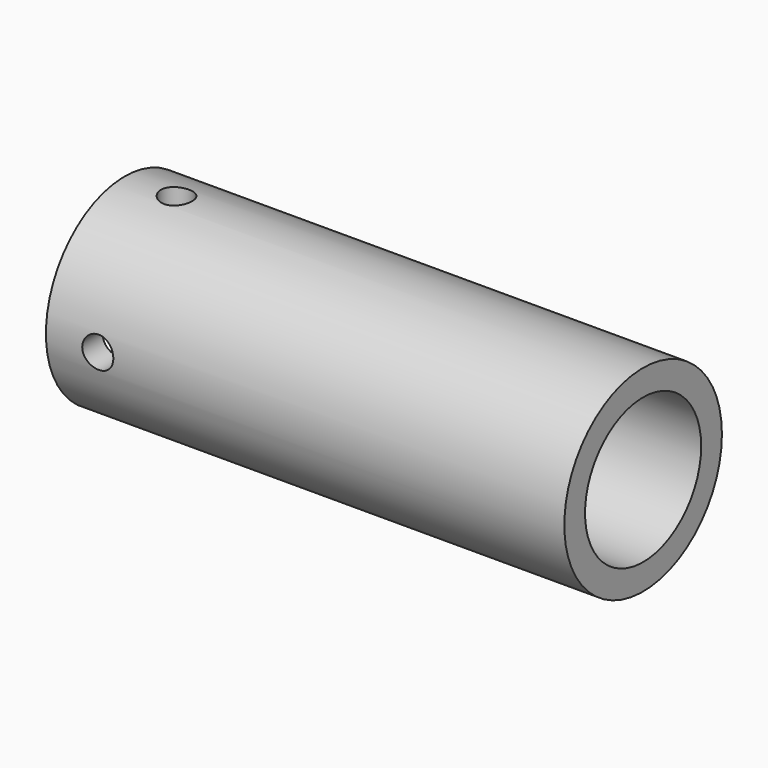
from build123d import *

# Parameters (mm, degrees)
F0_R     = 19
F0_R_2   = 14
F1_DEPTH = 100
F2_SIZE2 = 2
F2_SIZE  = 2
F5_R     = 3
F6_DEPTH = 5.3262057688
F7_R     = 3
F8_DEPTH = 5.3262057688


with BuildPart() as f1:
    # F0 (on Right) → F1 (new body)
    with BuildSketch(Plane.YZ):
        Circle(F0_R)
        Circle(F0_R_2, mode=Mode.SUBTRACT)
    extrude(amount=F1_DEPTH)

    # F2
    f2_edges = [f1.edges().sort_by_distance(p)[0] for p in [
        (0, -14, 0),
    ]]
    chamfer(f2_edges, length=F2_SIZE, length2=F2_SIZE2)

    # F5 (on offset) → F6 (cut, through all)
    with BuildSketch(Plane.XY.offset(19)):
        with Locations((10, 0)):
            Circle(F5_R)
    extrude(amount=-F6_DEPTH, mode=Mode.SUBTRACT)

    # F7 (on offset) → F8 (cut, through all)
    with BuildSketch(Plane.XZ.offset(19)):
        with Locations((10, 0)):
            Circle(F7_R)
    extrude(amount=-F8_DEPTH, mode=Mode.SUBTRACT)


solid = f1.part
